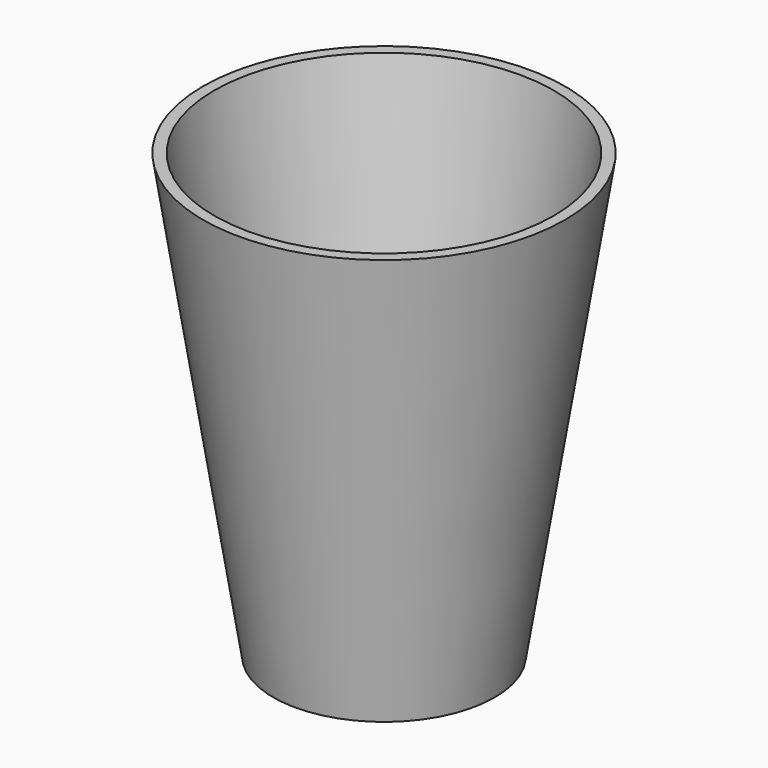
from build123d import *

# Parameters (mm, degrees)
F0_R     = 38.1
F1_DEPTH = 152.4
F1_TAPER = -9
F2_T     = -3.81


with BuildPart() as f1:
    # F0 (on Top) → F1 (new body)
    with BuildSketch(Plane.XY):
        Circle(F0_R)
    extrude(amount=F1_DEPTH, taper=F1_TAPER)

    # F2
    f2_openings = [f1.faces().sort_by_distance(p)[0] for p in [
        (0, 0, 152.4),
    ]]
    offset(amount=F2_T, openings=f2_openings, kind=Kind.INTERSECTION)


solid = f1.part
